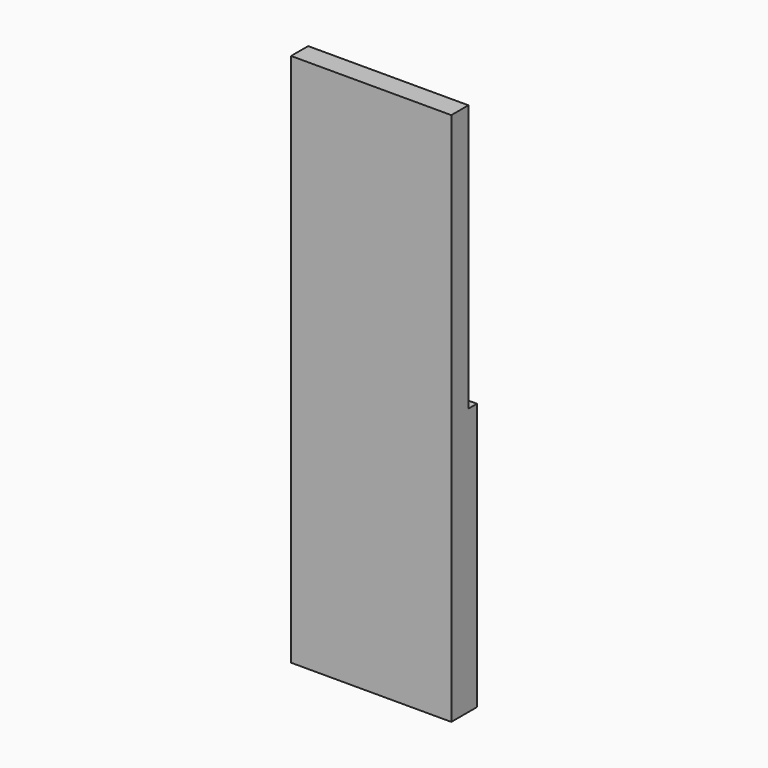
from build123d import *

# Parameters (mm, degrees)
F0_W     = 30
F0_H     = 6
F1_DEPTH = 100
F2_W     = 2
F2_H     = 50
F3_DEPTH = 30
F4_W     = 4.600006
F4_H     = 4.600006
F4_W_2   = 4.600004
F4_H_2   = 4.600004
F4_W_3   = 4.658593
F4_H_3   = 4.717186
F5_DEPTH = 3


with BuildPart() as f1:
    # F0 (on Top) → F1 (new body)
    with BuildSketch(Plane.XY):
        Rectangle(F0_W, F0_H)
    extrude(amount=F1_DEPTH)

    # F2 (on face) → F3 (cut, through all)
    with BuildSketch(Plane.YZ.offset(15)):
        with Locations((2, 75)):
            Rectangle(F2_W, F2_H)
    extrude(amount=-F3_DEPTH, mode=Mode.SUBTRACT)

    # F4 (on face) → F5 (join)
    with BuildSketch(Plane(origin=(0, 1, 0), x_dir=(-1, 0, 0), z_dir=(0, 1, 0))):
        with Locations((-7.5, 92.5)):
            Rectangle(F4_W, F4_H)
        with Locations((7.5, 92.5)):
            Rectangle(F4_W, F4_H)
        with Locations((-7.5, 62.5)):
            Rectangle(F4_W_2, F4_H_2)
        with Locations((7.470703, 62.5)):
            Rectangle(F4_W_3, F4_H_3)
    extrude(amount=F5_DEPTH)


solid = f1.part
